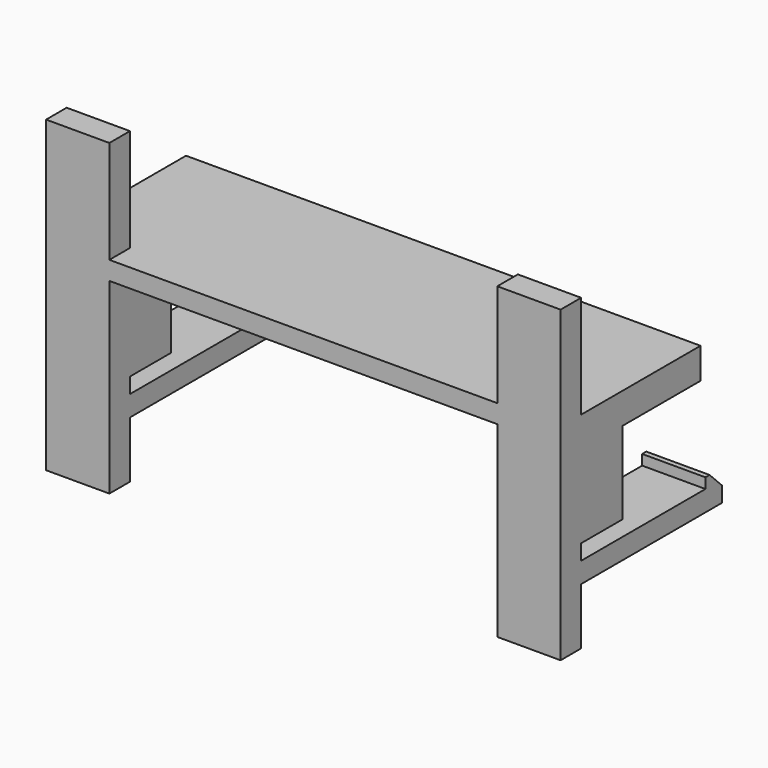
from build123d import *

# Parameters (mm, degrees)
F0_W      = 50
F0_H      = 17
F1_DEPTH  = 11
F2_W      = 37.7
F2_H      = 18.4
F3_DEPTH  = 12.5
F5_DEPTH  = 50.001
F6_W      = 6.15
F6_H      = 2.5
F7_DEPTH  = 10
F8_DEPTH  = 20
F9_W      = 6.15
F9_H      = 2
F10_DEPTH = 15.1
F11_W     = 9.5
F11_H     = 8
F12_DEPTH = 50.001
F13_W     = 6.15
F13_H     = 2
F14_DEPTH = 3
F15_SIZE  = 1.5


with BuildPart() as f1:
    # F0 (on Top) → F1 (new body)
    with BuildSketch(Plane.XY):
        Rectangle(F0_W, F0_H)
    extrude(amount=F1_DEPTH)

    # F2 (on Front) → F3 (cut, symmetric)
    with BuildSketch(Plane.XZ):
        Rectangle(F2_W, F2_H)
    extrude(amount=F3_DEPTH, both=True, mode=Mode.SUBTRACT)

    # F4 (on face) → F5 (cut, through all)
    with BuildSketch(Plane.YZ.offset(25)):
        with BuildLine():
            Line((1, 0), (1, 4))
            ThreePointArc((1, 4), (0, 5), (-1, 4))
            Line((-1, 4), (-1, 0))
            Line((-1, 0), (1, 0))
        make_face()
    extrude(amount=-F5_DEPTH, mode=Mode.SUBTRACT)

    # F6 (on face) → F7 (join)
    with BuildSketch(Plane.XY.offset(11)):
        with Locations((-21.925, -7.25)):
            Rectangle(F6_W, F6_H)
        with Locations((21.925, -7.25)):
            Rectangle(F6_W, F6_H)
    extrude(amount=F7_DEPTH)

    # F6 (on face) → F8 (join)
    with BuildSketch(Plane.XY.offset(11)):
        with Locations((-21.925, -7.25)):
            Rectangle(F6_W, F6_H)
        with Locations((21.925, -7.25)):
            Rectangle(F6_W, F6_H)
    extrude(amount=-F8_DEPTH)

    # F9 (on face) → F10 (join)
    with BuildSketch(Plane(origin=(0, -6, 0), x_dir=(-1, 0, 0), z_dir=(0, 1, 0))):
        with Locations((-21.925, -2.5)):
            Rectangle(F9_W, F9_H)
        with Locations((21.925, -2.5)):
            Rectangle(F9_W, F9_H)
    extrude(amount=F10_DEPTH)

    # F11 (on face) → F12 (cut, through all)
    with BuildSketch(Plane(origin=(-25, 0, 0), x_dir=(0, -1, 0), z_dir=(-1, 0, 0))):
        with Locations((-3.75, 4)):
            Rectangle(F11_W, F11_H)
    extrude(amount=-F12_DEPTH, mode=Mode.SUBTRACT)

    # F13 (on face) → F14 (join)
    with BuildSketch(Plane(origin=(0, 0, -3.5), x_dir=(1, 0, 0), z_dir=(0, 0, -1))):
        with Locations((21.925, -10.1)):
            Rectangle(F13_W, F13_H)
        with Locations((-21.925, -10.1)):
            Rectangle(F13_W, F13_H)
    extrude(amount=-F14_DEPTH)

    # F15
    f15_edges = [f1.edges().sort_by_distance(p)[0] for p in [
        (21.925, 11.1, -0.5),
        (-21.925, 11.1, -0.5),
    ]]
    chamfer(f15_edges, length=F15_SIZE)


solid = f1.part
